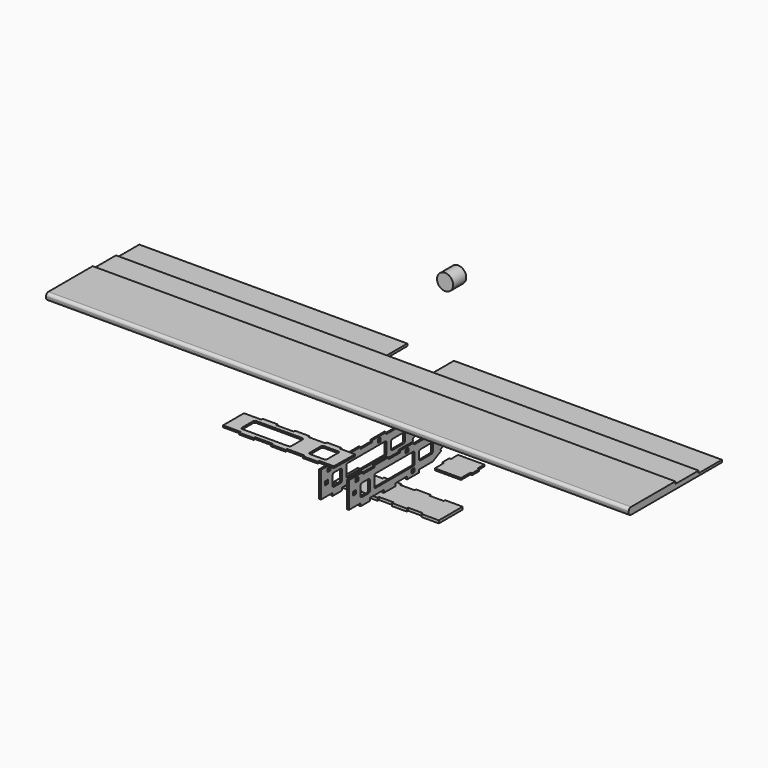
from build123d import *

# Parameters (mm, degrees)
F1_W      = 6.3
F1_H      = 6.3
F1_W_2    = 6.35
F1_H_2    = 6.35
F2_DEPTH  = 3
F5_R      = 0.5
F5_R_2    = 4
F6_DEPTH  = 3
F9_DEPTH  = 3
F12_DEPTH = 4.7
F14_DEPTH = 3
F15_ANGLE = 90
F16_ANGLE = 90
F18_DEPTH = 500
F19_W     = 50
F19_H     = 45.2380842892
F20_DEPTH = 40
F24_R     = 13.85
F25_DEPTH = 28


with BuildPart() as f2:
    # F1 (on offset) → F2 (new body)
    with BuildSketch(Plane.YZ.offset(22.5)):
        with BuildLine():
            Line((-95, 0), (-125, 0))
            Line((-125, 0), (-125, -45))
            Line((-125, -45), (-100, -45))
            Line((-100, -45), (-100, -49.7))
            Line((-100, -49.7), (-80, -49.7))
            Line((-80, -49.7), (-80, -45))
            Line((-80, -45), (-50, -45))
            Line((-50, -45), (-50, -49.7))
            Line((-50, -49.7), (-25, -49.7))
            Line((-25, -49.7), (-25, -45))
            Line((-25, -45), (0, -45))
            Line((0, -45), (0, -49.7))
            Line((0, -49.7), (25, -49.7))
            Line((25, -49.7), (25, -45))
            Line((25, -45), (55, -45))
            Line((55, -45), (72.88854382, -36.05572809))
            Line((72.88854382, -36.05572809), (71.5469030335, -33.372446517))
            Line((71.5469030335, -33.372446517), (84.9633108985, -26.6642425845))
            Line((84.9633108985, -26.6642425845), (86.304951685, -29.3475241575))
            Line((86.304951685, -29.3475241575), (100, -22.5))
            Line((100, -22.5), (100, -14))
            Line((100, -14), (103, -14))
            Line((103, -14), (103, -5.5))
            Line((103, -5.5), (100, -5.5))
            Line((100, -5.5), (100, 3))
            Line((100, 3), (103, 3))
            Line((103, 3), (103, 11.5))
            Line((103, 11.5), (100, 11.5))
            Line((100, 11.5), (100, 20))
            Line((100, 20), (87.0710678119, 20))
            ThreePointArc((87.0710678119, 20), (85.15765065, 19.6193976626), (83.5355339059, 18.5355339059))
            Line((83.5355339059, 18.5355339059), (73.4644660941, 8.4644660941))
            ThreePointArc((73.4644660941, 8.4644660941), (71.84234935, 7.3806023374), (69.9289321881, 7))
            Line((69.9289321881, 7), (51.5, 7))
            ThreePointArc((51.5, 7), (49.3786796564, 6.1213203436), (48.5, 4))
            Line((48.5, 4), (48.5, 0))
            Line((48.5, 0), (40, 0))
            Line((40, 0), (40, -3))
            Line((40, -3), (15, -3))
            Line((15, -3), (15, 0))
            Line((15, 0), (-15, 0))
            Line((-15, 0), (-15, -3))
            Line((-15, -3), (-40, -3))
            Line((-40, -3), (-40, 0))
            Line((-40, 0), (-70, 0))
            Line((-70, 0), (-70, -3))
            Line((-70, -3), (-95, -3))
            Line((-95, -3), (-95, 0))
        make_face()
        with Locations((-113, -24)):
            Rectangle(F1_W, F1_H, mode=Mode.SUBTRACT)
        with BuildLine():
            Line((-97, -15.2994021773), (-83, -15.2994021773))
            ThreePointArc((-83, -15.2994021773), (-80.8786796564, -16.1780818338), (-80, -18.2994021773))
            Line((-80, -18.2994021773), (-80, -34))
            ThreePointArc((-80, -34), (-80.8786796564, -36.1213203436), (-83, -37))
            Line((-83, -37), (-97, -37))
            ThreePointArc((-97, -37), (-99.1213203436, -36.1213203436), (-100, -34))
            Line((-100, -34), (-100, -18.2994021773))
            ThreePointArc((-100, -18.2994021773), (-99.1213203436, -16.1780818338), (-97, -15.2994021773))
        make_face(mode=Mode.SUBTRACT)
        with BuildLine():
            ThreePointArc((-70, -15), (-69.4142135624, -13.5857864376), (-68, -13))
            Line((-68, -13), (13.3789480776, -13))
            ThreePointArc((13.3789480776, -13), (14.7931616399, -13.5857864376), (15.3789480776, -15))
            Line((15.3789480776, -15), (15.3789480776, -33))
            ThreePointArc((15.3789480776, -33), (14.7931616399, -34.4142135624), (13.3789480776, -35))
            Line((13.3789480776, -35), (-68, -35))
            ThreePointArc((-68, -35), (-69.4142135624, -34.4142135624), (-70, -33))
            Line((-70, -33), (-70, -15))
        make_face(mode=Mode.SUBTRACT)
        with Locations((12.8118253738, -41.85)):
            Rectangle(F1_W, F1_H, mode=Mode.SUBTRACT)
        with BuildLine():
            ThreePointArc((55.0251410902, -29.5), (54.1464614337, -31.6213203436), (52.0251410902, -32.5))
            Line((52.0251410902, -32.5), (28.3789480776, -32.5))
            ThreePointArc((28.3789480776, -32.5), (26.257627734, -31.6213203436), (25.3789480776, -29.5))
            Line((25.3789480776, -29.5), (25.3789480776, -18.6449545175))
            ThreePointArc((25.3789480776, -18.6449545175), (26.257627734, -16.5236341739), (28.3789480776, -15.6449545175))
            Line((28.3789480776, -15.6449545175), (52.0251410902, -15.6449545175))
            ThreePointArc((52.0251410902, -15.6449545175), (54.1464614337, -16.5236341739), (55.0251410902, -18.6449545175))
            Line((55.0251410902, -18.6449545175), (55.0251410902, -29.5))
        make_face(mode=Mode.SUBTRACT)
        with Locations((-108.15, -6.15)):
            Rectangle(F1_W, F1_H, mode=Mode.SUBTRACT)
        with Locations((0, -6.15)):
            Rectangle(F1_W, F1_H, mode=Mode.SUBTRACT)
        with Locations((51.675, -6.175)):
            Rectangle(F1_W_2, F1_H_2, mode=Mode.SUBTRACT)
    extrude(amount=F2_DEPTH)


with BuildPart() as f3_1:
    # F3: instance of F2
    add(f2.part.mirror(Plane.YZ))


with BuildPart() as f6:
    # F5 (on offset) → F6 (new body)
    with BuildSketch(Plane.XZ.offset(-150)):
        Polygon((25.5, 20.0527197372), (0, 20.0527197372), (-25.5, 20.0527197372), (-25.5, 11.5527197372), (-22.5, 11.5527197372), (-22.5, 3.0527197372), (-25.5, 3.0527197372), (-25.5, -5.4472802628), (-22.5, -5.4472802628), (-22.5, -13.9472802628), (-25.5, -13.9472802628), (-25.5, -22.4472802628), (0, -22.4472802628), (25.5, -22.4472802628), (25.5, -13.9472802628), (22.5, -13.9472802628), (22.5, -5.4472802628), (25.5, -5.4472802628), (25.5, 3.0527197372), (22.5, 3.0527197372), (22.5, 11.5527197372), (25.5, 11.5527197372), align=None)
        with Locations((0, -9.5)):
            Circle(F5_R, mode=Mode.SUBTRACT)
        with Locations((-9.5, 0)):
            Circle(F5_R, mode=Mode.SUBTRACT)
        Circle(F5_R_2, mode=Mode.SUBTRACT)
        with Locations((9.5, 0)):
            Circle(F5_R, mode=Mode.SUBTRACT)
        with Locations((0, 9.5)):
            Circle(F5_R, mode=Mode.SUBTRACT)
    extrude(amount=-F6_DEPTH)


with BuildPart() as f9:
    # F8 (on offset) → F9 (new body)
    with BuildSketch(Plane.XY.offset(50)):
        Polygon((-142.1256130934, -140.5998981953), (-97.1256130934, -140.5998981953), (-97.1256130934, -110.5998981953), (-94.1256130934, -110.5998981953), (-94.1256130934, -85.5998981953), (-97.1256130934, -85.5998981953), (-97.1256130934, -55.5998981953), (-94.1256130934, -55.5998981953), (-94.1256130934, -30.5998981953), (-97.1256130934, -30.5998981953), (-97.1256130934, -0.5998981953), (-94.1256130934, -0.5998981953), (-94.1256130934, 24.4001018047), (-97.1256130934, 24.4001018047), (-97.1256130934, 49.4001018047), (-142.1256130934, 50.2430753946), (-142.1256130934, 24.4001018047), (-145.1256130934, 24.4001018047), (-145.1256130934, -0.5998981953), (-142.1256130934, -0.5998981953), (-142.1256130934, -30.5998981953), (-145.1256130934, -30.5998981953), (-145.1256130934, -55.5998981953), (-142.1256130934, -55.5998981953), (-142.1256130934, -85.5998981953), (-145.1256130934, -85.5998981953), (-145.1256130934, -110.5998981953), (-142.1256130934, -110.5998981953), align=None)
        with BuildLine():
            ThreePointArc((-134.6256130934, -34.5755046368), (-133.7469334369, -32.4541842932), (-131.6256130934, -31.5755046368))
            Line((-131.6256130934, -31.5755046368), (-107.6256130934, -31.5755046368))
            ThreePointArc((-107.6256130934, -31.5755046368), (-105.5042927498, -32.4541842932), (-104.6256130934, -34.5755046368))
            Line((-104.6256130934, -34.5755046368), (-104.6256130934, -113.5755046368))
            ThreePointArc((-104.6256130934, -113.5755046368), (-105.5042927498, -115.6968249803), (-107.6256130934, -116.5755046368))
            Line((-107.6256130934, -116.5755046368), (-131.6256130934, -116.5755046368))
            ThreePointArc((-131.6256130934, -116.5755046368), (-133.7469334369, -115.6968249803), (-134.6256130934, -113.5755046368))
            Line((-134.6256130934, -113.5755046368), (-134.6256130934, -34.5755046368))
        make_face(mode=Mode.SUBTRACT)
        with BuildLine():
            ThreePointArc((-104.6256130934, 2.7900404409), (-105.5042927498, 0.6687200973), (-107.6256130934, -0.2099595591))
            Line((-107.6256130934, -0.2099595591), (-131.6256130934, -0.2099595591))
            ThreePointArc((-131.6256130934, -0.2099595591), (-133.7469334369, 0.6687200973), (-134.6256130934, 2.7900404409))
            Line((-134.6256130934, 2.7900404409), (-134.6256130934, 26.7900404409))
            ThreePointArc((-134.6256130934, 26.7900404409), (-133.7469334369, 28.9113607844), (-131.6256130934, 29.7900404409))
            Line((-131.6256130934, 29.7900404409), (-107.6256130934, 29.7900404409))
            ThreePointArc((-107.6256130934, 29.7900404409), (-105.5042927498, 28.9113607844), (-104.6256130934, 26.7900404409))
            Line((-104.6256130934, 26.7900404409), (-104.6256130934, 2.7900404409))
        make_face(mode=Mode.SUBTRACT)
    extrude(amount=F9_DEPTH)


with BuildPart() as f12:
    # F11 (on offset) → F12 (new body)
    with BuildSketch(Plane.XY.offset(-100)):
        Polygon((27.0774285197, -177.8557057876), (78.0774285197, -177.8557057876), (78.0774285197, -152.8557057876), (75.0774285197, -152.8557057876), (75.0774285197, -132.8557057876), (78.0774285197, -132.8557057876), (78.0774285197, -102.8557057876), (75.0774285197, -102.8557057876), (75.0774285197, -77.8557057876), (78.0774285197, -77.8557057876), (78.0774285197, -52.8557057876), (75.0774285197, -52.8557057876), (75.0774285197, -27.8557057876), (78.0774285197, -27.8557057876), (78.0774285197, 2.1442942124), (27.0774285197, 2.1442942124), (27.0774285197, -27.8557057876), (30.0774285197, -27.8557057876), (30.0774285197, -52.8557057876), (27.0774285197, -52.8557057876), (27.0774285197, -77.8557057876), (30.0774285197, -77.8557057876), (30.0774285197, -102.8557057876), (27.0774285197, -102.8557057876), (27.0774285197, -132.8557057876), (30.0774285197, -132.8557057876), (30.0774285197, -152.8557057876), (27.0774285197, -152.8557057876), align=None)
    extrude(amount=F12_DEPTH)


with BuildPart() as f14:
    # F13 (on offset) → F14 (new body)
    with BuildSketch(Plane.XY.offset(-100)):
        Polygon((22.5, 169.2346847567), (-22.5, 169.2346847567), (-22.5, 154.2346847567), (-25.5, 154.2346847567), (-25.5, 139.2346847567), (-22.5, 139.2346847567), (-22.5, 119.2346847567), (22.5, 119.2346847567), (22.5, 139.2346847567), (25.5, 139.2346847567), (25.5, 154.2346847567), (22.5, 154.2346847567), align=None)
    extrude(amount=F14_DEPTH)


with BuildPart() as f9_1:
    # F15: moved
    add(f9.part.rotate(Axis((-142.1256130934, -140.5998981953, 51.5), (0, 0, -1)), F15_ANGLE))


with BuildPart() as f12_1:
    # F16: moved
    add(f12.part.rotate(Axis((78.0774285197, 2.1442942124, -97.65), (0, 0, -1)), F16_ANGLE))


with BuildPart() as f18:
    # F17 (on Right) → F18 (new body, symmetric)
    with BuildSketch(Plane.YZ):
        with BuildLine():
            ThreePointArc((-112.8938150853, 108.9477040806), (-116.4293489912, 107.4832379866), (-117.8938150853, 103.9477040806))
            Line((-117.8938150853, 103.9477040806), (-117.8938150853, 101.9477040806))
            ThreePointArc((-117.8938150853, 101.9477040806), (-116.4293489912, 98.4121701747), (-112.8938150853, 96.9477040806))
            Line((-112.8938150853, 96.9477040806), (82.1061849147, 96.9477040806))
            Line((82.1061849147, 96.9477040806), (82.1061849147, 100.9477040806))
            Line((82.1061849147, 100.9477040806), (32.1061849147, 100.9477040806))
            Line((32.1061849147, 100.9477040806), (32.1061849147, 104.9477040806))
            Line((32.1061849147, 104.9477040806), (-17.8938150853, 104.9477040806))
            Line((-17.8938150853, 104.9477040806), (-17.8938150853, 108.9477040806))
            Line((-17.8938150853, 108.9477040806), (-112.8938150853, 108.9477040806))
        make_face()
    extrude(amount=F18_DEPTH, both=True)


with BuildPart() as f20:
    # F19 (on Right) → F20 (new body, symmetric)
    with BuildSketch(Plane.YZ):
        with Locations((26.9157737494, 62.6389980316)):
            Rectangle(F19_W, F19_H)
    extrude(amount=F20_DEPTH, both=True)


with BuildPart() as f20_1:
    # F21: moved
    add(f20.part.moved(Location((0, 30.4192, 35.26276))))


with BuildPart() as f18_1:
    add(f18.part)

    # F22: cut F20
    add(f20_1.part, mode=Mode.SUBTRACT)


with BuildPart() as f25:
    # F24 (on offset) → F25 (new body)
    with BuildSketch(Plane.XZ.offset(-150)):
        with Locations((-7.0312144235, 188.3993595839)):
            Circle(F24_R)
    extrude(amount=F25_DEPTH)


solid = Compound([f2.part, f3_1.part, f6.part, f14.part, f9_1.part, f12_1.part, f18_1.part, f25.part])
